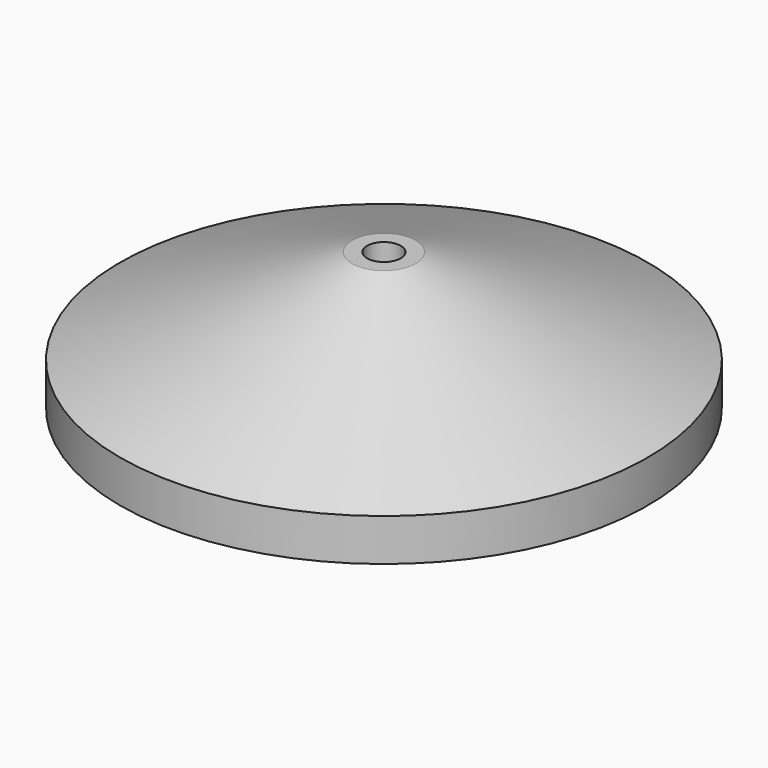
from build123d import *

# Parameters (mm, degrees)
SKETCH_W        = 12
SKETCH_H        = 12
POCKET_DEPTH    = 6
POCKET001_DEPTH = 3
CHAMFER_SIZE    = 1
CHAMFER001_SIZE = 1


with BuildPart() as part:
    # Sketch002 → Revolution (revolve)
    with BuildSketch(Plane.YZ):
        Polygon((1.6, 13), (1.6, 0), (25, 0), (25, 4), (3, 13), align=None)
    revolve(axis=Axis((0, 0, 0), (0, 0, 1)))

    # Sketch (on Face4 of Revolution) → Pocket (cut)
    with BuildSketch(Plane.YX):
        Rectangle(SKETCH_W, SKETCH_H)
    extrude(amount=-POCKET_DEPTH, mode=Mode.SUBTRACT)

    # Sketch003 (on Face2 of Pocket) → Pocket001 (cut)
    with BuildSketch(Plane.YX.offset(-6)):
        Polygon((3.1, 0), (1.55, 2.684679), (-1.55, 2.684679), (-3.1, 0), (-1.55, -2.684679), (1.55, -2.684679), align=None)
    extrude(amount=-POCKET001_DEPTH, mode=Mode.SUBTRACT)

    # Chamfer
    chamfer_edges = [part.edges().sort_by_distance(p)[0] for p in [
        (0, -6, 6),
        (0, 6, 6),
        (-6, 0, 6),
        (6, 0, 6),
    ]]
    chamfer(chamfer_edges, length=CHAMFER_SIZE)

    # Chamfer001
    chamfer001_edges = [part.edges().sort_by_distance(p)[0] for p in [
        (0, -1.6, 9),
    ]]
    chamfer(chamfer001_edges, length=CHAMFER001_SIZE)


solid = part.part
